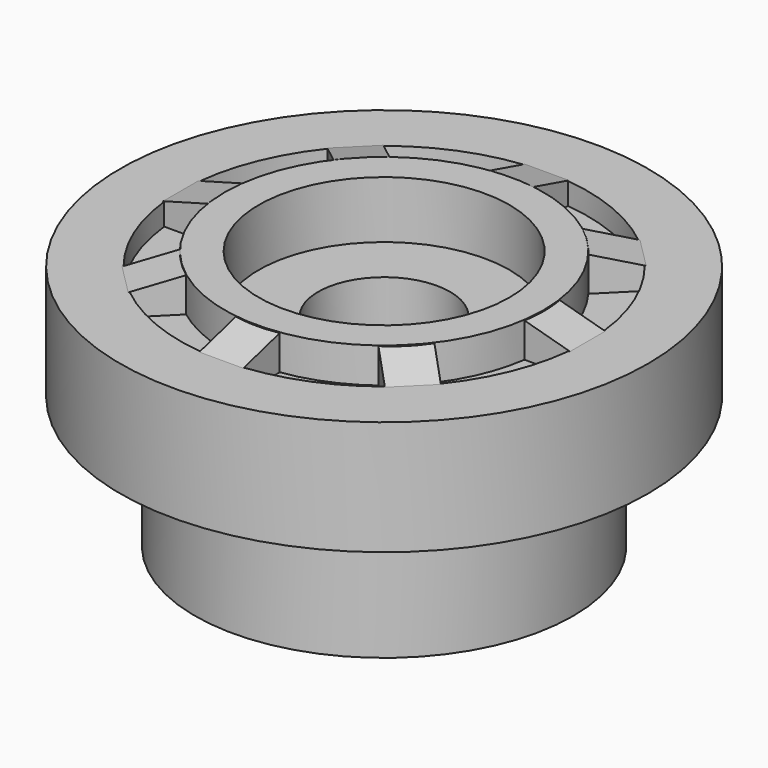
from build123d import *

# Parameters (mm, degrees)
PAD008_DEPTH          = 2.6
SKETCH020_R           = 3.625
SKETCH020_R_2         = 2.85
PAD009_DEPTH          = 2.9
SKETCH021_R           = 4.625
SKETCH021_R_2         = 3.625
POCKET011_DEPTH       = 0.5
PAD010_DEPTH          = 0.5
POLARPATTERN006_COUNT = 8
SKETCH023_R           = 2.85
POCKET012_DEPTH       = 1.3
SKETCH024_R           = 1.5
POCKET013_DEPTH       = 5
SKETCH025_R           = 0.75
POCKET014_DEPTH       = 5
POLARPATTERN007_COUNT = 4
SKETCH026_R           = 4.3
PAD011_DEPTH          = 3
POCKET015_DEPTH       = 5
POCKET015_DEPTH_BACK  = 0.5
POLARPATTERN008_COUNT = 25
FILLET001_R           = 1
SKETCH028_R           = 25
SKETCH028_R_2         = 6
POCKET016_DEPTH       = 5


with BuildPart() as part:
    # Sketch019 → Pad008 (new body)
    with BuildSketch(Plane.XY):
        with BuildLine():
            ThreePointArc((3.1440666838, 19.7956884151), (0, 22.4), (-3.1440666838, 19.7956884151))
            Line((-3.1440666838, 19.7956884151), (-5, 10))
            Line((-5, 10), (-5, 5))
            Line((-5, 5), (-10, 5))
            Line((-10, 5), (-19.7956884151, 3.1440666838))
            ThreePointArc((-19.7956884151, 3.1440666838), (-22.4, 0), (-19.7956884151, -3.1440666838))
            Line((-10, -5), (-19.7956884151, -3.1440666838))
            Line((-5, -5), (-10, -5))
            Line((-5, -10), (-5, -5))
            Line((-3.1440666838, -19.7956884151), (-5, -10))
            ThreePointArc((-3.1440666838, -19.7956884151), (0, -22.4), (3.1440666838, -19.7956884151))
            Line((3.1440666838, -19.7956884151), (5, -10))
            Line((5, -10), (5, -5))
            Line((5, -5), (10, -5))
            Line((10, -5), (19.7956884151, -3.1440666838))
            ThreePointArc((19.7956884151, -3.1440666838), (22.4, 0), (19.7956884151, 3.1440666838))
            Line((10, 5), (19.7956884151, 3.1440666838))
            Line((5, 5), (10, 5))
            Line((5, 10), (5, 5))
            Line((3.1440666838, 19.7956884151), (5, 10))
        make_face()
    extrude(amount=PAD008_DEPTH)

    # Sketch020 → Pad009 (join)
    with BuildSketch(Plane.XY):
        Circle(SKETCH020_R)
        Circle(SKETCH020_R_2, mode=Mode.SUBTRACT)
    extrude(amount=PAD009_DEPTH)

    # Sketch021 (on Face5 of Pad009) → Pocket011 (cut)
    with BuildSketch(Plane.XY.offset(2.6)):
        Circle(SKETCH021_R)
        Circle(SKETCH021_R_2, mode=Mode.SUBTRACT)
    extrude(amount=-POCKET011_DEPTH, mode=Mode.SUBTRACT)

    # Sketch022 → Pad010 (join, symmetric)
    with BuildSketch(Plane.XZ):
        Polygon((3.537661, 2.9), (4.625, 2.6), (4.625, 2.1), (3.537661, 2.1), align=None)
    pad010 = extrude(amount=PAD010_DEPTH, both=True)

    # PolarPattern006: Pad010 ×8 about axis
    polarpattern006_axis = Axis((0, 0, 0), (0, 0, 1))
    for i in range(1, POLARPATTERN006_COUNT):
        add(pad010.rotate(polarpattern006_axis, i * 360 / POLARPATTERN006_COUNT))

    # Sketch023 (on Face74 of PolarPattern006) → Pocket012 (cut)
    with BuildSketch(Plane.XY.offset(2.9)):
        Circle(SKETCH023_R)
    extrude(amount=-POCKET012_DEPTH, mode=Mode.SUBTRACT)

    # Sketch024 (on Face66 of Pocket012) → Pocket013 (cut)
    with BuildSketch(Plane.XY.offset(1.6)):
        Circle(SKETCH024_R)
    extrude(amount=-POCKET013_DEPTH, mode=Mode.SUBTRACT)

    # Sketch025 → Pocket014 (cut)
    with BuildSketch(Plane.XY):
        with Locations((8.8, 0)):
            Circle(SKETCH025_R)
        with Locations((12.17411, 0)):
            Circle(SKETCH025_R)
        with Locations((15.54822, 0)):
            Circle(SKETCH025_R)
        with Locations((18.92233, 0)):
            Circle(SKETCH025_R)
    pocket014 = extrude(amount=POCKET014_DEPTH, mode=Mode.SUBTRACT)

    # PolarPattern007: Pocket014 ×4 about axis
    polarpattern007_axis = Axis((0, 0, 0), (0, 0, 1))
    for i in range(1, POLARPATTERN007_COUNT):
        add(pocket014.rotate(polarpattern007_axis, i * 360 / POLARPATTERN007_COUNT), mode=Mode.SUBTRACT)

    # Sketch026 → Pad011 (join)
    with BuildSketch(Plane.XY):
        Circle(SKETCH026_R)
    extrude(amount=-PAD011_DEPTH)

    # Sketch027 → Pocket015 (cut, two sides)
    with BuildSketch(Plane.XY) as pocket015_sk:
        with BuildLine():
            ThreePointArc((2.9950699672, 0.1719182704), (2.9874502188, 0.2741189345), (2.9763441039, 0.3759997007))
            Line((0, 0), (2.9763441039, 0.3759997007))
            Line((0, 0), (2.9763441039, -0.3759997007))
            ThreePointArc((2.9763441039, -0.3759997007), (2.9874502188, -0.2741189345), (2.9950699672, -0.1719182704))
            Line((2.703959, 0), (2.9950699672, -0.1719182704))
            Line((2.9950699672, 0.1719182704), (2.703959, 0))
        make_face()
    pocket015 = extrude(amount=-POCKET015_DEPTH, mode=Mode.SUBTRACT) + extrude(pocket015_sk.sketch, amount=POCKET015_DEPTH_BACK, mode=Mode.SUBTRACT)

    # PolarPattern008: Pocket015 ×25 about axis
    polarpattern008_axis = Axis((0, 0, 0), (0, 0, 1))
    for i in range(1, POLARPATTERN008_COUNT):
        add(pocket015.rotate(polarpattern008_axis, i * 360 / POLARPATTERN008_COUNT), mode=Mode.SUBTRACT)

    # Fillet001
    fillet001_edges = [part.edges().sort_by_distance(p)[0] for p in [
        (-5, -5, 1.3),
        (5, -5, 1.3),
        (5, 5, 1.3),
        (-5, 5, 1.3),
    ]]
    fillet(fillet001_edges, radius=FILLET001_R)

    # Sketch028 → Pocket016 (cut, symmetric)
    with BuildSketch(Plane.XY):
        Circle(SKETCH028_R)
        Circle(SKETCH028_R_2, mode=Mode.SUBTRACT)
    extrude(amount=POCKET016_DEPTH, both=True, mode=Mode.SUBTRACT)


solid = part.part
